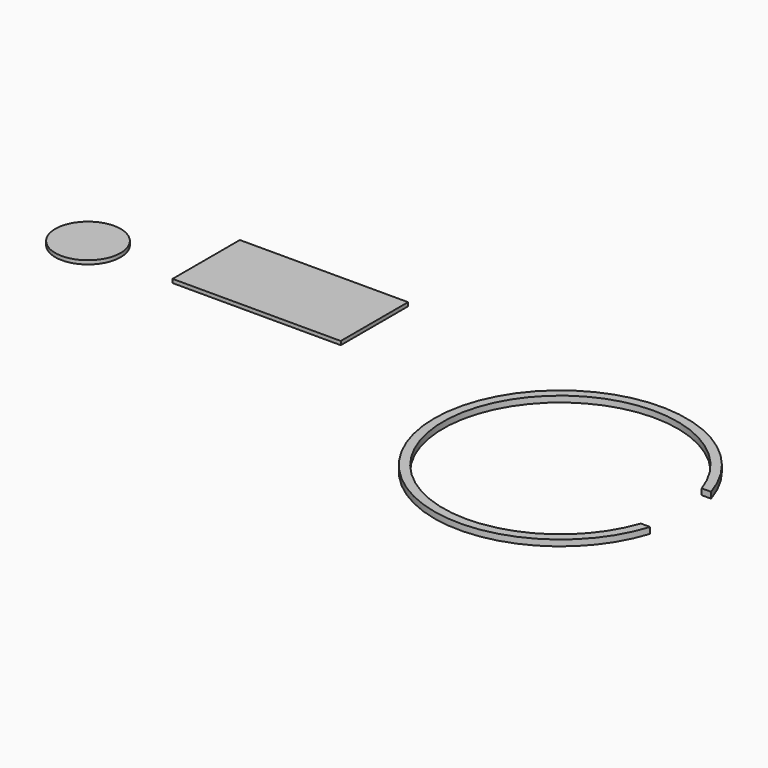
from build123d import *

# Parameters (mm, degrees)
F0_R     = 3.5
F1_DEPTH = 0.4
F0_W     = 18
F0_H     = 9
F2_DEPTH = 0.4
F3_DEPTH = 0.65


with BuildPart() as f1:
    # F0 (on Top) → F1 (new body)
    with BuildSketch(Plane.XY):
        with Locations((-23.366418443, 19.1098190844)):
            Circle(F0_R)
    extrude(amount=F1_DEPTH)


with BuildPart() as f2:
    # F0 (on Top) → F2 (new body)
    with BuildSketch(Plane.XY):
        with Locations((-4.560760178, 22.666967287)):
            Rectangle(F0_W, F0_H)
    extrude(amount=F2_DEPTH)


with BuildPart() as f3:
    # F0 (on Top) → F3 (new body)
    with BuildSketch(Plane.XY):
        with BuildLine():
            ThreePointArc((44.9519422085, 7.6634903133), (20.5319432616, 11.7384903133), (44.9519422085, 15.8134903133))
            Line((44.9519422085, 15.8134903133), (45.9522336624, 15.8134903133))
            ThreePointArc((45.9522336624, 15.8134903133), (19.5819432616, 11.7384903133), (45.9522336624, 7.6634903133))
            Line((45.9522336624, 7.6634903133), (44.9519422085, 7.6634903133))
        make_face()
    extrude(amount=F3_DEPTH)


solid = Compound([f1.part, f2.part, f3.part])
